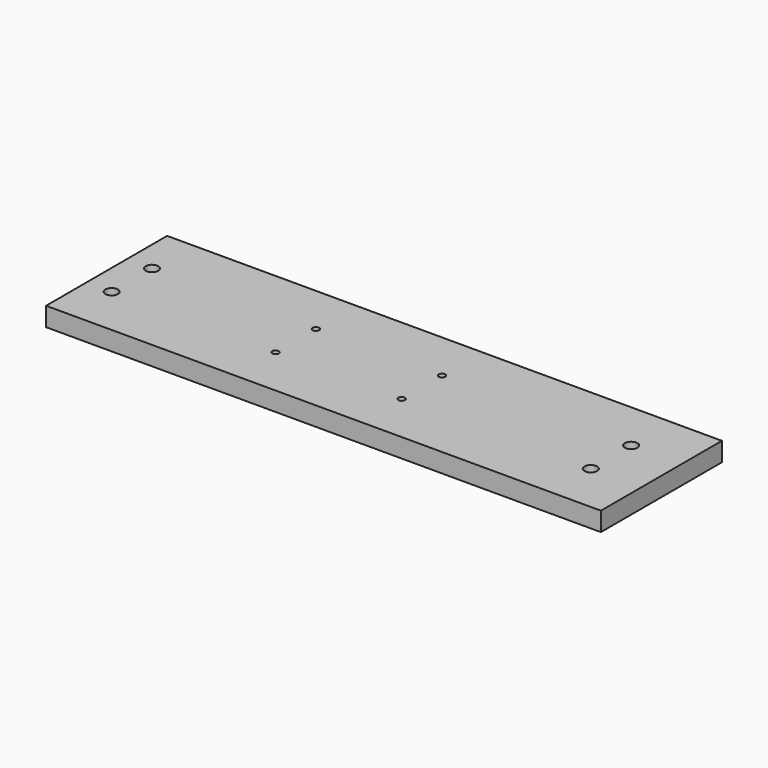
from build123d import *

# Parameters (mm, degrees)
F0_W     = 279.4
F0_H     = 76.2
F1_DEPTH = 9.525
F2_R     = 3.175
F2_R_2   = 1.651
F3_DEPTH = 9.526


with BuildPart() as f1:
    # F0 (on Top) → F1 (new body)
    with BuildSketch(Plane.XY):
        Rectangle(F0_W, F0_H)
    extrude(amount=F1_DEPTH)

    # F2 (on face) → F3 (cut, through all)
    with BuildSketch(Plane.XY.offset(9.525)):
        with Locations((-127, 12.7)):
            Circle(F2_R)
        with Locations((-127, -12.7)):
            Circle(F2_R)
        with Locations((-44.45, 12.7)):
            Circle(F2_R_2)
        with Locations((-44.45, -12.7)):
            Circle(F2_R_2)
        with Locations((19.05, 12.7)):
            Circle(F2_R_2)
        with Locations((19.05, -12.7)):
            Circle(F2_R_2)
        with Locations((114.3, 12.7)):
            Circle(F2_R)
        with Locations((114.3, -12.7)):
            Circle(F2_R)
    extrude(amount=-F3_DEPTH, mode=Mode.SUBTRACT)


solid = f1.part
